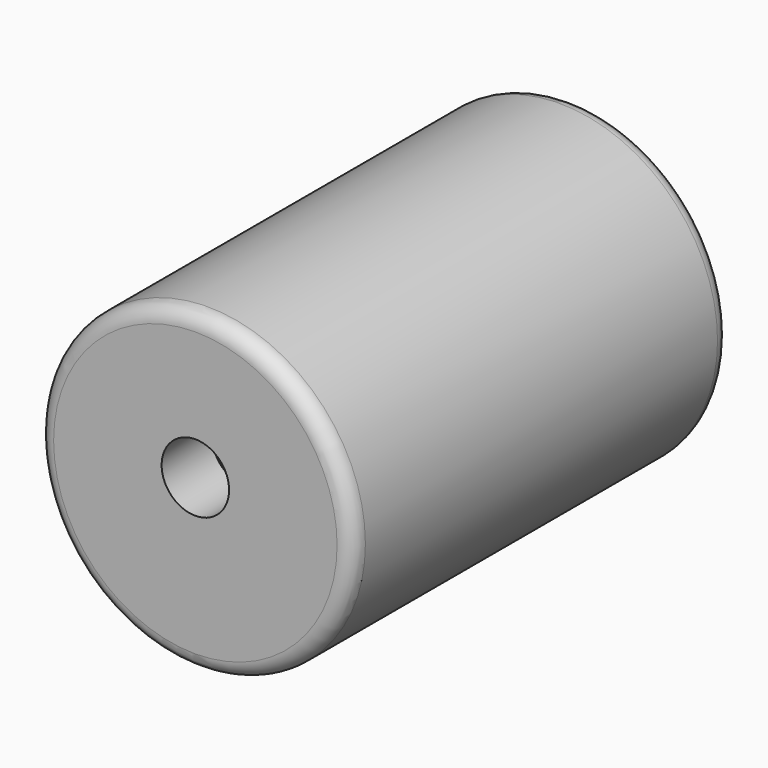
from build123d import *

# Parameters (mm, degrees)
F0_R     = 127.208159
F1_DEPTH = 381
F2_R     = 27.237413
F3_DEPTH = 50.8
F4_R     = 12.7
F5_R     = 12.7


with BuildPart() as f1:
    # F0 (on Front) → F1 (new body)
    with BuildSketch(Plane.XZ):
        Circle(F0_R)
    extrude(amount=F1_DEPTH)

    # F2 (on face) → F3 (cut)
    with BuildSketch(Plane.XZ.offset(381)):
        with Locations((0, 10.933507)):
            Circle(F2_R)
    extrude(amount=-F3_DEPTH, mode=Mode.SUBTRACT)

    # F4
    f4_edges = [f1.edges().sort_by_distance(p)[0] for p in [
        (-127.208159, -381, 0),
    ]]
    fillet(f4_edges, radius=F4_R)

    # F5
    f5_edges = [f1.edges().sort_by_distance(p)[0] for p in [
        (-127.208159, 0, 0),
    ]]
    fillet(f5_edges, radius=F5_R)


solid = f1.part
